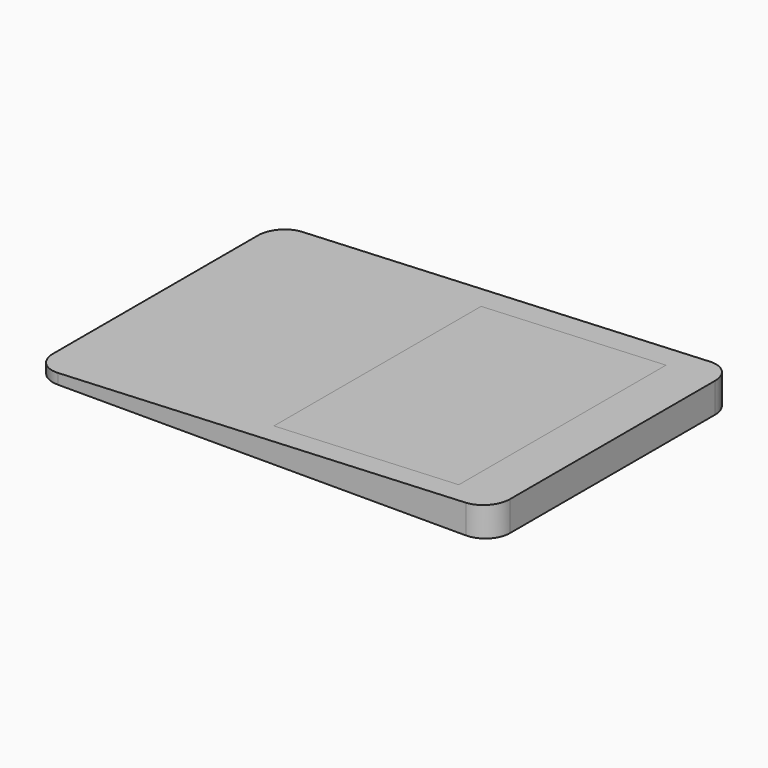
from build123d import *

# Parameters (mm, degrees)
F1_DEPTH = 63.246
F2_R     = 5.08
F3_W     = 42.474462
F3_H     = 53.623985
F4_DEPTH = 1.27


with BuildPart() as f1:
    # F0 (on Front) → F1 (new body)
    with BuildSketch(Plane.XZ):
        Polygon((-46.401739, 1.929175), (-46.401739, 0), (48.229381, 0), (48.229381, 6.193668), align=None)
    extrude(amount=F1_DEPTH)

    # F2
    f2_edges = [f1.edges().sort_by_distance(p)[0] for p in [
        (48.229381, 0, 3.096834),
        (48.229381, -63.246, 3.096834),
        (-46.401739, -63.246, 0.964588),
        (-46.401739, 0, 0.964588),
    ]]
    fillet(f2_edges, radius=F2_R)

    # F3 (on face) → F4 (join)
    with BuildSketch(Plane(origin=(-0.180802, 0, 4.012093), x_dir=(0.998986, 0, 0.045019), z_dir=(-0.045019, 0, 0.998986))):
        with Locations((17.051772, -31.891992)):
            Rectangle(F3_W, F3_H)
    extrude(amount=-F4_DEPTH)


solid = f1.part
